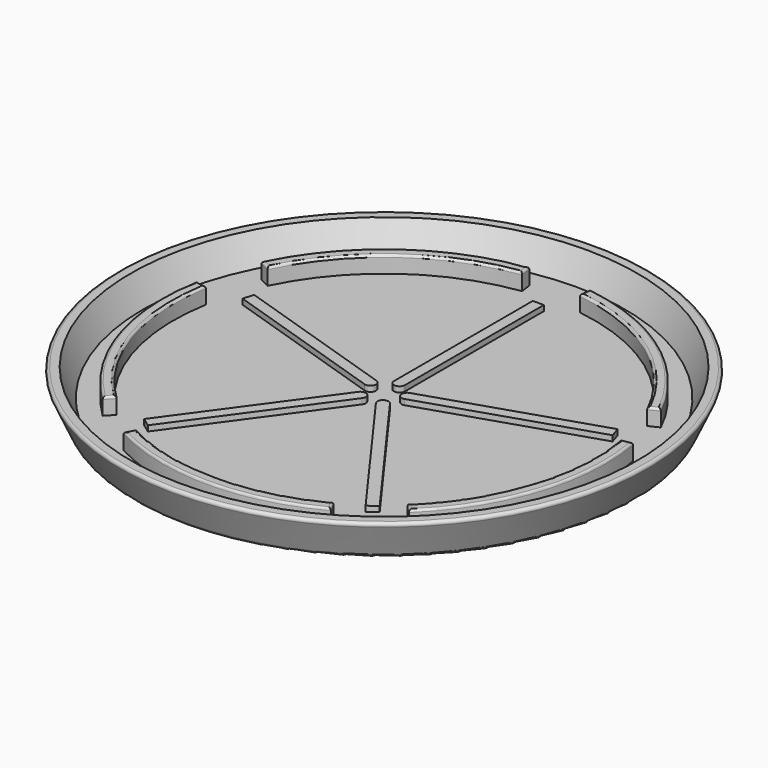
from build123d import *

# Parameters (mm, degrees)
F2_R     = 1
F3_R     = 0.5
F5_DEPTH = 1
F7_DEPTH = 3
F8_R     = 0.4


with BuildPart() as f1:
    # F0 (on Right) → F1 (revolve)
    with BuildSketch(Plane.YZ):
        Polygon((-45, 0), (0, 0), (0, 2), (-43.715038, 2), (-46, 7), (-48.198947, 7), align=None)
    revolve(axis=Axis((0, 0, 1), (0, 0, 1)))

    # F2
    f2_edges = [f1.edges().sort_by_distance(p)[0] for p in [
        (0, 45, 0),
    ]]
    fillet(f2_edges, radius=F2_R)

    # F3
    f3_edges = [f1.edges().sort_by_distance(p)[0] for p in [
        (0, 48.198947, 7),
    ]]
    fillet(f3_edges, radius=F3_R)

    # F4 (on face) → F5 (join)
    with BuildSketch(Plane.XY.offset(2)):
        with BuildLine():
            Line((1, 35), (-1, 35))
            Line((-1, 35), (-1, 3.497445))
            ThreePointArc((-1, 3.497445), (0, 2.497445), (1, 3.497445))
            Line((1, 3.497445), (1, 35))
        make_face()
        with BuildLine():
            Line((-33.595995, 9.864538), (-3.635285, 0.129714))
            ThreePointArc((-3.635285, 0.129714), (-2.375212, 0.771753), (-3.017251, 2.031827))
            Line((-3.017251, 2.031827), (-32.977961, 11.766651))
            Line((-32.977961, 11.766651), (-33.595995, 9.864538))
        make_face()
        with BuildLine():
            Line((-19.763467, -28.90338), (-1.24673, -3.417278))
            ThreePointArc((-1.24673, -3.417278), (-1.467961, -2.020476), (-2.864764, -2.241707))
            Line((-2.864764, -2.241707), (-21.381501, -27.72781))
            Line((-21.381501, -27.72781), (-19.763467, -28.90338))
        make_face()
        with BuildLine():
            Line((21.381501, -27.72781), (2.864764, -2.241707))
            ThreePointArc((2.864764, -2.241707), (1.467961, -2.020476), (1.24673, -3.417278))
            Line((1.24673, -3.417278), (19.763467, -28.90338))
            Line((19.763467, -28.90338), (21.381501, -27.72781))
        make_face()
        with BuildLine():
            Line((32.977961, 11.766651), (3.017251, 2.031827))
            ThreePointArc((3.017251, 2.031827), (2.375212, 0.771753), (3.635285, 0.129714))
            Line((3.635285, 0.129714), (33.595995, 9.864538))
            Line((33.595995, 9.864538), (32.977961, 11.766651))
        make_face()
    extrude(amount=F5_DEPTH)

    # F6 (on face) → F7 (join)
    with BuildSketch(Plane.XY.offset(2)):
        with BuildLine():
            ThreePointArc((-34.445667, 16.630049), (-22.516124, 30.920651), (-5.2535, 37.887508))
            Line((-5.2535, 37.887508), (-5.528193, 39.868554))
            ThreePointArc((-5.528193, 39.868554), (-23.693438, 32.537417), (-36.246748, 17.499594))
            Line((-36.246748, 17.499594), (-34.445667, 16.630049))
        make_face()
        with BuildLine():
            ThreePointArc((36.246553, 17.499998), (23.693076, 32.537681), (5.527749, 39.868615))
            Line((5.527749, 39.868615), (5.253078, 37.887566))
            ThreePointArc((5.253078, 37.887566), (22.51578, 30.920902), (34.445482, 16.630432))
            Line((34.445482, 16.630432), (36.246553, 17.499998))
        make_face()
        with BuildLine():
            ThreePointArc((27.781897, -29.124366), (38.239889, -12.560788), (39.640529, 6.977889))
            Line((39.640529, 6.977889), (37.670814, 6.631162))
            ThreePointArc((37.670814, 6.631162), (36.33977, -11.93665), (26.40143, -27.677193))
            Line((26.40143, -27.677193), (27.781897, -29.124366))
        make_face()
        with BuildLine():
            Line((18.8097, -35.584515), (17.875056, -33.81634))
            ThreePointArc((17.875056, -33.81634), (0, -38.25), (-17.875056, -33.81634))
            Line((-17.875056, -33.81634), (-18.8097, -35.584515))
            ThreePointArc((-18.8097, -35.584515), (0, -40.25), (18.8097, -35.584515))
        make_face()
        with BuildLine():
            ThreePointArc((-39.640607, 6.977448), (-38.239819, -12.561001), (-27.781897, -29.124366))
            Line((-27.781897, -29.124366), (-26.40143, -27.677193))
            ThreePointArc((-26.40143, -27.677193), (-36.339704, -11.936852), (-37.670887, 6.630742))
            Line((-37.670887, 6.630742), (-39.640607, 6.977448))
        make_face()
    extrude(amount=F7_DEPTH)

    # F8
    f8_edges = [f1.edges().sort_by_distance(p)[0] for p in [
        (-22.516124, 30.920651, 5),
        (-23.693438, 32.537417, 5),
        (-35.346207, 17.064821, 5),
        (-5.390846, 38.878031, 5),
        (-38.655747, 6.804095, 5),
        (-38.239819, -12.561001, 5),
        (-36.339704, -11.936852, 5),
        (-27.091664, -28.400779, 5),
        (-18.342378, -34.700427, 5),
        (0, -40.25, 5),
        (18.342378, -34.700427, 5),
        (0, -38.25, 5),
        (38.239889, -12.560788, 5),
        (36.33977, -11.93665, 5),
        (27.091664, -28.400779, 5),
        (38.655671, 6.804526, 5),
        (23.693076, 32.537681, 5),
        (35.346017, 17.065215, 5),
        (5.390413, 38.878091, 5),
        (22.51578, 30.920902, 5),
    ]]
    fillet(f8_edges, radius=F8_R)


solid = f1.part
